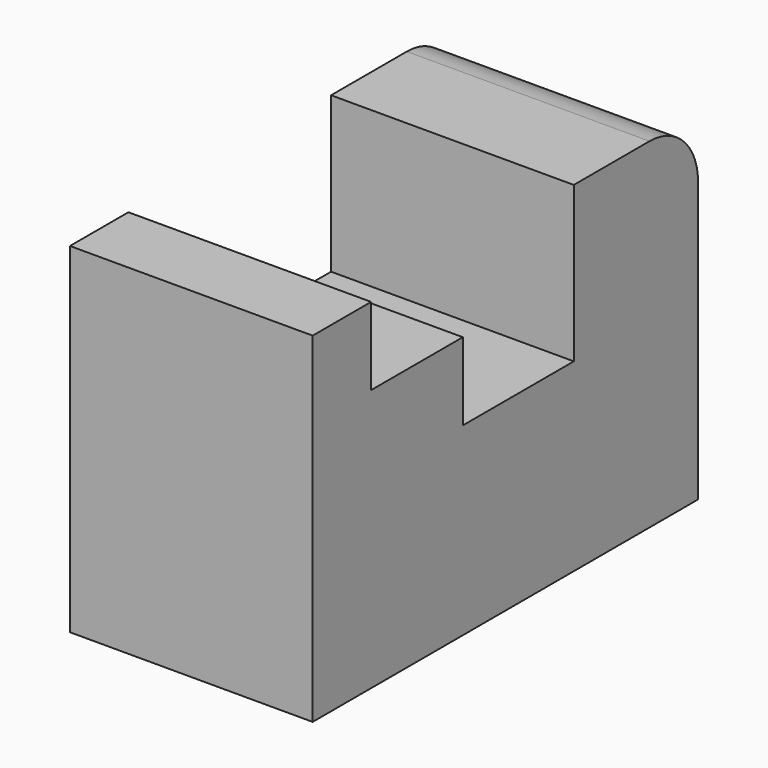
from build123d import *

# Parameters (mm, degrees)
F1_DEPTH = 25.4


with BuildPart() as f1:
    # F0 (on Right) → F1 (new body)
    with BuildSketch(Plane.YZ):
        with BuildLine():
            Line((0, 35.586301), (0, 0))
            Line((0, 0), (50.411891, 0))
            Line((50.411891, 0), (50.411891, 29.236301))
            ThreePointArc((50.411891, 29.236301), (48.552019, 33.726429), (44.061891, 35.586301))
            Line((44.061891, 35.586301), (34.157392, 35.586301))
            Line((34.157392, 35.586301), (34.157392, 19.331805))
            Line((34.157392, 19.331805), (19.638814, 19.331805))
            Line((19.638814, 19.331805), (19.638814, 27.459053))
            Line((19.638814, 27.459053), (7.645205, 27.459053))
            Line((7.645205, 27.459053), (7.645205, 35.586301))
            Line((7.645205, 35.586301), (0, 35.586301))
        make_face()
    extrude(amount=F1_DEPTH)


solid = f1.part
